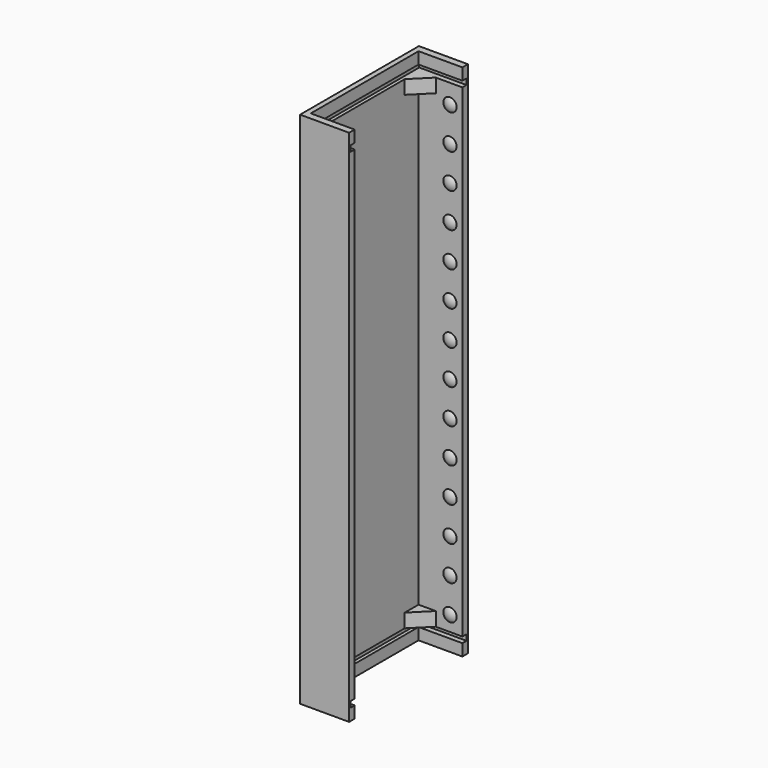
from build123d import *

# Parameters (mm, degrees)
EXTRUDE019_DEPTH           = 4
EXTRUDE014_DEPTH           = 4
EXTRUDE014_PLACEMENT_ANGLE = -90
EXTRUDE025_DEPTH           = 4
EXTRUDE024_DEPTH           = 4
EXTRUDE024_PLACEMENT_ANGLE = -90
BOX061_W                   = 10
BOX061_H                   = 10
BOX061_DEPTH               = 10
BOX058_W                   = 10
BOX058_H                   = 10
BOX058_DEPTH               = 10
BOX059_W                   = 10
BOX059_H                   = 10
BOX059_DEPTH               = 10
BOX060_W                   = 10
BOX060_H                   = 10
BOX060_DEPTH               = 10
BOX057_W                   = 10
BOX057_H                   = 10
BOX057_DEPTH               = 10
BOX050_W                   = 10
BOX050_H                   = 10
BOX050_DEPTH               = 10
BOX063_W                   = 10
BOX063_H                   = 10
BOX063_DEPTH               = 10
BOX053_W                   = 10
BOX053_H                   = 10
BOX053_DEPTH               = 10
BOX056_W                   = 10
BOX056_H                   = 10
BOX056_DEPTH               = 10
BOX054_W                   = 10
BOX054_H                   = 10
BOX054_DEPTH               = 10
BOX052_W                   = 10
BOX052_H                   = 10
BOX052_DEPTH               = 10
BOX051_W                   = 10
BOX051_H                   = 10
BOX051_DEPTH               = 10
BOX055_W                   = 10
BOX055_H                   = 10
BOX055_DEPTH               = 10
BOX062_W                   = 10
BOX062_H                   = 10
BOX062_DEPTH               = 10
FUSION012_PLACEMENT_ANGLE  = 180
BOX029_W                   = 10
BOX029_H                   = 10
BOX029_DEPTH               = 10
BOX032_W                   = 10
BOX032_H                   = 10
BOX032_DEPTH               = 10
BOX027_W                   = 10
BOX027_H                   = 10
BOX027_DEPTH               = 10
BOX023_W                   = 10
BOX023_H                   = 10
BOX023_DEPTH               = 10
BOX024_W                   = 10
BOX024_H                   = 10
BOX024_DEPTH               = 10
BOX033_W                   = 10
BOX033_H                   = 10
BOX033_DEPTH               = 10
BOX022_W                   = 10
BOX022_H                   = 10
BOX022_DEPTH               = 10
BOX025_W                   = 10
BOX025_H                   = 10
BOX025_DEPTH               = 10
BOX026_W                   = 10
BOX026_H                   = 10
BOX026_DEPTH               = 10
BOX028_W                   = 10
BOX028_H                   = 10
BOX028_DEPTH               = 10
BOX035_W                   = 10
BOX035_H                   = 10
BOX035_DEPTH               = 10
BOX034_W                   = 10
BOX034_H                   = 10
BOX034_DEPTH               = 10
BOX031_W                   = 10
BOX031_H                   = 10
BOX031_DEPTH               = 10
BOX030_W                   = 10
BOX030_H                   = 10
BOX030_DEPTH               = 10
EXTRUDE007_DEPTH           = 140
EXTRUDE008_DEPTH           = 3.4
EXTRUDE_DEPTH              = 3.4
EXTRUDE009_DEPTH           = 150.2


with BuildPart() as extrude019:
    # Sketch012 → Extrude019 (new body)
    with BuildSketch(Plane.XY):
        Polygon((0, 0), (5, 0), (0, 5), align=None)
    extrude(amount=EXTRUDE019_DEPTH)


with BuildPart() as extrude019_1:
    # Extrude019 placement: moved
    add(extrude019.part.moved(Location((-10, -19.5, 1.6))))


with BuildPart() as obj1:
    # Sketch010 → Extrude014 (new body)
    with BuildSketch(Plane.XY):
        Polygon((0, 0), (5, 0), (0, 5), align=None)
    extrude(amount=EXTRUDE014_DEPTH)


with BuildPart() as obj1_1:
    # Extrude014 placement: moved
    add(obj1.part.moved(Location((-10, 19.5, 1.6))).rotate(Axis((-10, 19.5, 1.6), (0, 0, 1)), EXTRUDE014_PLACEMENT_ANGLE))

    # Fusion027: union Extrude019
    add(extrude019_1.part)


with BuildPart() as extrude025:
    # Sketch018 → Extrude025 (new body)
    with BuildSketch(Plane.XY):
        Polygon((0, 0), (5, 0), (0, 5), align=None)
    extrude(amount=EXTRUDE025_DEPTH)


with BuildPart() as extrude025_1:
    # Extrude025 placement: moved
    add(extrude025.part.moved(Location((-10, -19.5, 1.6))))


with BuildPart() as obj2:
    # Sketch013 → Extrude024 (new body)
    with BuildSketch(Plane.XY):
        Polygon((0, 0), (5, 0), (0, 5), align=None)
    extrude(amount=EXTRUDE024_DEPTH)


with BuildPart() as obj2_1:
    # Extrude024 placement: moved
    add(obj2.part.moved(Location((-10, 19.5, 1.6))).rotate(Axis((-10, 19.5, 1.6), (0, 0, 1)), EXTRUDE024_PLACEMENT_ANGLE))

    # Fusion033: union Extrude025
    add(extrude025_1.part)


with BuildPart() as obj2_2:
    # Fusion033 placement: moved
    add(obj2_1.part.moved(Location((0, 0, 136))))


with BuildPart() as cube059:
    # Box061 → Box061 (new body)
    with BuildSketch(Plane(origin=(-6, 20.5, 0), x_dir=(1, 0, 0), z_dir=(0, 0, 1))):
        with Locations((5, 5)):
            Rectangle(BOX061_W, BOX061_H)
    extrude(amount=BOX061_DEPTH)


with BuildPart() as obj3:
    # Sphere043 → Sphere043 (revolve)
    with BuildSketch(Plane(origin=(-1, 21.8, 6), x_dir=(1, 0, 0), z_dir=(0, -1, 0))):
        with BuildLine():
            ThreePointArc((0, -3), (3, 0), (0, 3))
            Line((0, 3), (0, -3))
        make_face()
    revolve(axis=Axis((-1, 21.8, 6), (0, 0, 1)))

    # Cut044: cut Cube059
    add(cube059.part, mode=Mode.SUBTRACT)


with BuildPart() as obj3_1:
    # Cut044 placement: moved
    add(obj3.part.moved(Location((0, 0, 20))))


with BuildPart() as cube056:
    # Box058 → Box058 (new body)
    with BuildSketch(Plane(origin=(-6, 20.5, 0), x_dir=(1, 0, 0), z_dir=(0, 0, 1))):
        with Locations((5, 5)):
            Rectangle(BOX058_W, BOX058_H)
    extrude(amount=BOX058_DEPTH)


with BuildPart() as obj4:
    # Sphere047 → Sphere047 (revolve)
    with BuildSketch(Plane(origin=(-1, 21.8, 6), x_dir=(1, 0, 0), z_dir=(0, -1, 0))):
        with BuildLine():
            ThreePointArc((0, -3), (3, 0), (0, 3))
            Line((0, 3), (0, -3))
        make_face()
    revolve(axis=Axis((-1, 21.8, 6), (0, 0, 1)))

    # Cut045: cut Cube056
    add(cube056.part, mode=Mode.SUBTRACT)


with BuildPart() as obj4_1:
    # Cut045 placement: moved
    add(obj4.part.moved(Location((0, 0, 60))))


with BuildPart() as cube057:
    # Box059 → Box059 (new body)
    with BuildSketch(Plane(origin=(-6, 20.5, 0), x_dir=(1, 0, 0), z_dir=(0, 0, 1))):
        with Locations((5, 5)):
            Rectangle(BOX059_W, BOX059_H)
    extrude(amount=BOX059_DEPTH)


with BuildPart() as obj5:
    # Sphere055 → Sphere055 (revolve)
    with BuildSketch(Plane(origin=(-1, 21.8, 6), x_dir=(1, 0, 0), z_dir=(0, -1, 0))):
        with BuildLine():
            ThreePointArc((0, -3), (3, 0), (0, 3))
            Line((0, 3), (0, -3))
        make_face()
    revolve(axis=Axis((-1, 21.8, 6), (0, 0, 1)))

    # Cut046: cut Cube057
    add(cube057.part, mode=Mode.SUBTRACT)


with BuildPart() as obj5_1:
    # Cut046 placement: moved
    add(obj5.part.moved(Location((0, 0, 80))))


with BuildPart() as cube058:
    # Box060 → Box060 (new body)
    with BuildSketch(Plane(origin=(-6, 20.5, 0), x_dir=(1, 0, 0), z_dir=(0, 0, 1))):
        with Locations((5, 5)):
            Rectangle(BOX060_W, BOX060_H)
    extrude(amount=BOX060_DEPTH)


with BuildPart() as obj6:
    # Sphere052 → Sphere052 (revolve)
    with BuildSketch(Plane(origin=(-1, 21.8, 6), x_dir=(1, 0, 0), z_dir=(0, -1, 0))):
        with BuildLine():
            ThreePointArc((0, -3), (3, 0), (0, 3))
            Line((0, 3), (0, -3))
        make_face()
    revolve(axis=Axis((-1, 21.8, 6), (0, 0, 1)))

    # Cut049: cut Cube058
    add(cube058.part, mode=Mode.SUBTRACT)


with BuildPart() as obj6_1:
    # Cut049 placement: moved
    add(obj6.part.moved(Location((0, 0, 110))))


with BuildPart() as cube055:
    # Box057 → Box057 (new body)
    with BuildSketch(Plane(origin=(-6, 20.5, 0), x_dir=(1, 0, 0), z_dir=(0, 0, 1))):
        with Locations((5, 5)):
            Rectangle(BOX057_W, BOX057_H)
    extrude(amount=BOX057_DEPTH)


with BuildPart() as obj7:
    # Sphere051 → Sphere051 (revolve)
    with BuildSketch(Plane(origin=(-1, 21.8, 6), x_dir=(1, 0, 0), z_dir=(0, -1, 0))):
        with BuildLine():
            ThreePointArc((0, -3), (3, 0), (0, 3))
            Line((0, 3), (0, -3))
        make_face()
    revolve(axis=Axis((-1, 21.8, 6), (0, 0, 1)))

    # Cut052: cut Cube055
    add(cube055.part, mode=Mode.SUBTRACT)


with BuildPart() as obj7_1:
    # Cut052 placement: moved
    add(obj7.part.moved(Location((0, 0, 70))))


with BuildPart() as cube048:
    # Box050 → Box050 (new body)
    with BuildSketch(Plane(origin=(-6, 20.5, 0), x_dir=(1, 0, 0), z_dir=(0, 0, 1))):
        with Locations((5, 5)):
            Rectangle(BOX050_W, BOX050_H)
    extrude(amount=BOX050_DEPTH)


with BuildPart() as obj8:
    # Sphere048 → Sphere048 (revolve)
    with BuildSketch(Plane(origin=(-1, 21.8, 6), x_dir=(1, 0, 0), z_dir=(0, -1, 0))):
        with BuildLine():
            ThreePointArc((0, -3), (3, 0), (0, 3))
            Line((0, 3), (0, -3))
        make_face()
    revolve(axis=Axis((-1, 21.8, 6), (0, 0, 1)))

    # Cut053: cut Cube048
    add(cube048.part, mode=Mode.SUBTRACT)


with BuildPart() as obj8_1:
    # Cut053 placement: moved
    add(obj8.part.moved(Location((0, 0, 40))))


with BuildPart() as cube061:
    # Box063 → Box063 (new body)
    with BuildSketch(Plane(origin=(-6, 20.5, 0), x_dir=(1, 0, 0), z_dir=(0, 0, 1))):
        with Locations((5, 5)):
            Rectangle(BOX063_W, BOX063_H)
    extrude(amount=BOX063_DEPTH)


with BuildPart() as obj9:
    # Sphere050 → Sphere050 (revolve)
    with BuildSketch(Plane(origin=(-1, 21.8, 6), x_dir=(1, 0, 0), z_dir=(0, -1, 0))):
        with BuildLine():
            ThreePointArc((0, -3), (3, 0), (0, 3))
            Line((0, 3), (0, -3))
        make_face()
    revolve(axis=Axis((-1, 21.8, 6), (0, 0, 1)))

    # Cut050: cut Cube061
    add(cube061.part, mode=Mode.SUBTRACT)


with BuildPart() as obj9_1:
    # Cut050 placement: moved
    add(obj9.part.moved(Location((0, 0, 90))))


with BuildPart() as cube051:
    # Box053 → Box053 (new body)
    with BuildSketch(Plane(origin=(-6, 20.5, 0), x_dir=(1, 0, 0), z_dir=(0, 0, 1))):
        with Locations((5, 5)):
            Rectangle(BOX053_W, BOX053_H)
    extrude(amount=BOX053_DEPTH)


with BuildPart() as obj10:
    # Sphere049 → Sphere049 (revolve)
    with BuildSketch(Plane(origin=(-1, 21.8, 6), x_dir=(1, 0, 0), z_dir=(0, -1, 0))):
        with BuildLine():
            ThreePointArc((0, -3), (3, 0), (0, 3))
            Line((0, 3), (0, -3))
        make_face()
    revolve(axis=Axis((-1, 21.8, 6), (0, 0, 1)))

    # Cut055: cut Cube051
    add(cube051.part, mode=Mode.SUBTRACT)


with BuildPart() as obj10_1:
    # Cut055 placement: moved
    add(obj10.part.moved(Location((0, 0, 100))))


with BuildPart() as cube054:
    # Box056 → Box056 (new body)
    with BuildSketch(Plane(origin=(-6, 20.5, 0), x_dir=(1, 0, 0), z_dir=(0, 0, 1))):
        with Locations((5, 5)):
            Rectangle(BOX056_W, BOX056_H)
    extrude(amount=BOX056_DEPTH)


with BuildPart() as obj11:
    # Sphere056 → Sphere056 (revolve)
    with BuildSketch(Plane(origin=(-1, 21.8, 6), x_dir=(1, 0, 0), z_dir=(0, -1, 0))):
        with BuildLine():
            ThreePointArc((0, -3), (3, 0), (0, 3))
            Line((0, 3), (0, -3))
        make_face()
    revolve(axis=Axis((-1, 21.8, 6), (0, 0, 1)))

    # Cut051: cut Cube054
    add(cube054.part, mode=Mode.SUBTRACT)


with BuildPart() as obj11_1:
    # Cut051 placement: moved
    add(obj11.part.moved(Location((0, 0, 120))))


with BuildPart() as cube052:
    # Box054 → Box054 (new body)
    with BuildSketch(Plane(origin=(-6, 20.5, 0), x_dir=(1, 0, 0), z_dir=(0, 0, 1))):
        with Locations((5, 5)):
            Rectangle(BOX054_W, BOX054_H)
    extrude(amount=BOX054_DEPTH)


with BuildPart() as obj12:
    # Sphere044 → Sphere044 (revolve)
    with BuildSketch(Plane(origin=(-1, 21.8, 6), x_dir=(1, 0, 0), z_dir=(0, -1, 0))):
        with BuildLine():
            ThreePointArc((0, -3), (3, 0), (0, 3))
            Line((0, 3), (0, -3))
        make_face()
    revolve(axis=Axis((-1, 21.8, 6), (0, 0, 1)))

    # Cut054: cut Cube052
    add(cube052.part, mode=Mode.SUBTRACT)


with BuildPart() as obj12_1:
    # Cut054 placement: moved
    add(obj12.part.moved(Location((0, 0, 10))))


with BuildPart() as cube050:
    # Box052 → Box052 (new body)
    with BuildSketch(Plane(origin=(-6, 20.5, 0), x_dir=(1, 0, 0), z_dir=(0, 0, 1))):
        with Locations((5, 5)):
            Rectangle(BOX052_W, BOX052_H)
    extrude(amount=BOX052_DEPTH)


with BuildPart() as obj13:
    # Sphere053 → Sphere053 (revolve)
    with BuildSketch(Plane(origin=(-1, 21.8, 6), x_dir=(1, 0, 0), z_dir=(0, -1, 0))):
        with BuildLine():
            ThreePointArc((0, -3), (3, 0), (0, 3))
            Line((0, 3), (0, -3))
        make_face()
    revolve(axis=Axis((-1, 21.8, 6), (0, 0, 1)))

    # Cut056: cut Cube050
    add(cube050.part, mode=Mode.SUBTRACT)


with BuildPart() as obj13_1:
    # Cut056 placement: moved
    add(obj13.part.moved(Location((0, 0, 30))))


with BuildPart() as cube049:
    # Box051 → Box051 (new body)
    with BuildSketch(Plane(origin=(-6, 20.5, 0), x_dir=(1, 0, 0), z_dir=(0, 0, 1))):
        with Locations((5, 5)):
            Rectangle(BOX051_W, BOX051_H)
    extrude(amount=BOX051_DEPTH)


with BuildPart() as obj14:
    # Sphere054 → Sphere054 (revolve)
    with BuildSketch(Plane(origin=(-1, 21.8, 6), x_dir=(1, 0, 0), z_dir=(0, -1, 0))):
        with BuildLine():
            ThreePointArc((0, -3), (3, 0), (0, 3))
            Line((0, 3), (0, -3))
        make_face()
    revolve(axis=Axis((-1, 21.8, 6), (0, 0, 1)))

    # Cut048: cut Cube049
    add(cube049.part, mode=Mode.SUBTRACT)


with BuildPart() as obj14_1:
    # Cut048 placement: moved
    add(obj14.part.moved(Location((0, 0, 50))))


with BuildPart() as cube053:
    # Box055 → Box055 (new body)
    with BuildSketch(Plane(origin=(-6, 20.5, 0), x_dir=(1, 0, 0), z_dir=(0, 0, 1))):
        with Locations((5, 5)):
            Rectangle(BOX055_W, BOX055_H)
    extrude(amount=BOX055_DEPTH)


with BuildPart() as obj15:
    # Sphere046 → Sphere046 (revolve)
    with BuildSketch(Plane(origin=(-1, 21.8, 6), x_dir=(1, 0, 0), z_dir=(0, -1, 0))):
        with BuildLine():
            ThreePointArc((0, -3), (3, 0), (0, 3))
            Line((0, 3), (0, -3))
        make_face()
    revolve(axis=Axis((-1, 21.8, 6), (0, 0, 1)))

    # Cut047: cut Cube053
    add(cube053.part, mode=Mode.SUBTRACT)


with BuildPart() as obj15_1:
    # Cut047 placement: moved
    add(obj15.part.moved(Location((0, 0, 130))))


with BuildPart() as cube060:
    # Box062 → Box062 (new body)
    with BuildSketch(Plane(origin=(-6, 20.5, 0), x_dir=(1, 0, 0), z_dir=(0, 0, 1))):
        with Locations((5, 5)):
            Rectangle(BOX062_W, BOX062_H)
    extrude(amount=BOX062_DEPTH)


with BuildPart() as obj16:
    # Sphere045 → Sphere045 (revolve)
    with BuildSketch(Plane(origin=(-1, 21.8, 6), x_dir=(1, 0, 0), z_dir=(0, -1, 0))):
        with BuildLine():
            ThreePointArc((0, -3), (3, 0), (0, 3))
            Line((0, 3), (0, -3))
        make_face()
    revolve(axis=Axis((-1, 21.8, 6), (0, 0, 1)))

    # Cut057: cut Cube060
    add(cube060.part, mode=Mode.SUBTRACT)

    # Fusion012: union obj3, obj4, obj5, obj6, obj7, obj8, obj9, obj10, obj11, obj12, obj13, obj14, obj15
    add(obj3_1.part)
    add(obj4_1.part)
    add(obj5_1.part)
    add(obj6_1.part)
    add(obj7_1.part)
    add(obj8_1.part)
    add(obj9_1.part)
    add(obj10_1.part)
    add(obj11_1.part)
    add(obj12_1.part)
    add(obj13_1.part)
    add(obj14_1.part)
    add(obj15_1.part)


with BuildPart() as obj16_1:
    # Fusion012 placement: moved
    add(obj16.part.moved(Location((-2, 0, 0))).rotate(Axis((-2, 0, 0), (0, 0, 1)), FUSION012_PLACEMENT_ANGLE))


with BuildPart() as cube027:
    # Box029 → Box029 (new body)
    with BuildSketch(Plane(origin=(-6, 20.5, 0), x_dir=(1, 0, 0), z_dir=(0, 0, 1))):
        with Locations((5, 5)):
            Rectangle(BOX029_W, BOX029_H)
    extrude(amount=BOX029_DEPTH)


with BuildPart() as obj17:
    # Sphere024 → Sphere024 (revolve)
    with BuildSketch(Plane(origin=(-1, 21.8, 6), x_dir=(1, 0, 0), z_dir=(0, -1, 0))):
        with BuildLine():
            ThreePointArc((0, -3), (3, 0), (0, 3))
            Line((0, 3), (0, -3))
        make_face()
    revolve(axis=Axis((-1, 21.8, 6), (0, 0, 1)))

    # Cut016: cut Cube027
    add(cube027.part, mode=Mode.SUBTRACT)


with BuildPart() as obj17_1:
    # Cut016 placement: moved
    add(obj17.part.moved(Location((0, 0, 20))))


with BuildPart() as cube030:
    # Box032 → Box032 (new body)
    with BuildSketch(Plane(origin=(-6, 20.5, 0), x_dir=(1, 0, 0), z_dir=(0, 0, 1))):
        with Locations((5, 5)):
            Rectangle(BOX032_W, BOX032_H)
    extrude(amount=BOX032_DEPTH)


with BuildPart() as obj18:
    # Sphere025 → Sphere025 (revolve)
    with BuildSketch(Plane(origin=(-1, 21.8, 6), x_dir=(1, 0, 0), z_dir=(0, -1, 0))):
        with BuildLine():
            ThreePointArc((0, -3), (3, 0), (0, 3))
            Line((0, 3), (0, -3))
        make_face()
    revolve(axis=Axis((-1, 21.8, 6), (0, 0, 1)))

    # Cut017: cut Cube030
    add(cube030.part, mode=Mode.SUBTRACT)


with BuildPart() as obj18_1:
    # Cut017 placement: moved
    add(obj18.part.moved(Location((0, 0, 60))))


with BuildPart() as cube025:
    # Box027 → Box027 (new body)
    with BuildSketch(Plane(origin=(-6, 20.5, 0), x_dir=(1, 0, 0), z_dir=(0, 0, 1))):
        with Locations((5, 5)):
            Rectangle(BOX027_W, BOX027_H)
    extrude(amount=BOX027_DEPTH)


with BuildPart() as obj19:
    # Sphere018 → Sphere018 (revolve)
    with BuildSketch(Plane(origin=(-1, 21.8, 6), x_dir=(1, 0, 0), z_dir=(0, -1, 0))):
        with BuildLine():
            ThreePointArc((0, -3), (3, 0), (0, 3))
            Line((0, 3), (0, -3))
        make_face()
    revolve(axis=Axis((-1, 21.8, 6), (0, 0, 1)))

    # Cut018: cut Cube025
    add(cube025.part, mode=Mode.SUBTRACT)


with BuildPart() as obj19_1:
    # Cut018 placement: moved
    add(obj19.part.moved(Location((0, 0, 80))))


with BuildPart() as cube021:
    # Box023 → Box023 (new body)
    with BuildSketch(Plane(origin=(-6, 20.5, 0), x_dir=(1, 0, 0), z_dir=(0, 0, 1))):
        with Locations((5, 5)):
            Rectangle(BOX023_W, BOX023_H)
    extrude(amount=BOX023_DEPTH)


with BuildPart() as obj20:
    # Sphere016 → Sphere016 (revolve)
    with BuildSketch(Plane(origin=(-1, 21.8, 6), x_dir=(1, 0, 0), z_dir=(0, -1, 0))):
        with BuildLine():
            ThreePointArc((0, -3), (3, 0), (0, 3))
            Line((0, 3), (0, -3))
        make_face()
    revolve(axis=Axis((-1, 21.8, 6), (0, 0, 1)))

    # Cut019: cut Cube021
    add(cube021.part, mode=Mode.SUBTRACT)


with BuildPart() as obj20_1:
    # Cut019 placement: moved
    add(obj20.part.moved(Location((0, 0, 110))))


with BuildPart() as cube022:
    # Box024 → Box024 (new body)
    with BuildSketch(Plane(origin=(-6, 20.5, 0), x_dir=(1, 0, 0), z_dir=(0, 0, 1))):
        with Locations((5, 5)):
            Rectangle(BOX024_W, BOX024_H)
    extrude(amount=BOX024_DEPTH)


with BuildPart() as obj21:
    # Sphere020 → Sphere020 (revolve)
    with BuildSketch(Plane(origin=(-1, 21.8, 6), x_dir=(1, 0, 0), z_dir=(0, -1, 0))):
        with BuildLine():
            ThreePointArc((0, -3), (3, 0), (0, 3))
            Line((0, 3), (0, -3))
        make_face()
    revolve(axis=Axis((-1, 21.8, 6), (0, 0, 1)))

    # Cut020: cut Cube022
    add(cube022.part, mode=Mode.SUBTRACT)


with BuildPart() as obj21_1:
    # Cut020 placement: moved
    add(obj21.part.moved(Location((0, 0, 70))))


with BuildPart() as cube031:
    # Box033 → Box033 (new body)
    with BuildSketch(Plane(origin=(-6, 20.5, 0), x_dir=(1, 0, 0), z_dir=(0, 0, 1))):
        with Locations((5, 5)):
            Rectangle(BOX033_W, BOX033_H)
    extrude(amount=BOX033_DEPTH)


with BuildPart() as obj22:
    # Sphere021 → Sphere021 (revolve)
    with BuildSketch(Plane(origin=(-1, 21.8, 6), x_dir=(1, 0, 0), z_dir=(0, -1, 0))):
        with BuildLine():
            ThreePointArc((0, -3), (3, 0), (0, 3))
            Line((0, 3), (0, -3))
        make_face()
    revolve(axis=Axis((-1, 21.8, 6), (0, 0, 1)))

    # Cut021: cut Cube031
    add(cube031.part, mode=Mode.SUBTRACT)


with BuildPart() as obj22_1:
    # Cut021 placement: moved
    add(obj22.part.moved(Location((0, 0, 40))))


with BuildPart() as cube020:
    # Box022 → Box022 (new body)
    with BuildSketch(Plane(origin=(-6, 20.5, 0), x_dir=(1, 0, 0), z_dir=(0, 0, 1))):
        with Locations((5, 5)):
            Rectangle(BOX022_W, BOX022_H)
    extrude(amount=BOX022_DEPTH)


with BuildPart() as obj23:
    # Sphere015 → Sphere015 (revolve)
    with BuildSketch(Plane(origin=(-1, 21.8, 6), x_dir=(1, 0, 0), z_dir=(0, -1, 0))):
        with BuildLine():
            ThreePointArc((0, -3), (3, 0), (0, 3))
            Line((0, 3), (0, -3))
        make_face()
    revolve(axis=Axis((-1, 21.8, 6), (0, 0, 1)))

    # Cut022: cut Cube020
    add(cube020.part, mode=Mode.SUBTRACT)


with BuildPart() as obj23_1:
    # Cut022 placement: moved
    add(obj23.part.moved(Location((0, 0, 90))))


with BuildPart() as cube023:
    # Box025 → Box025 (new body)
    with BuildSketch(Plane(origin=(-6, 20.5, 0), x_dir=(1, 0, 0), z_dir=(0, 0, 1))):
        with Locations((5, 5)):
            Rectangle(BOX025_W, BOX025_H)
    extrude(amount=BOX025_DEPTH)


with BuildPart() as obj24:
    # Sphere017 → Sphere017 (revolve)
    with BuildSketch(Plane(origin=(-1, 21.8, 6), x_dir=(1, 0, 0), z_dir=(0, -1, 0))):
        with BuildLine():
            ThreePointArc((0, -3), (3, 0), (0, 3))
            Line((0, 3), (0, -3))
        make_face()
    revolve(axis=Axis((-1, 21.8, 6), (0, 0, 1)))

    # Cut023: cut Cube023
    add(cube023.part, mode=Mode.SUBTRACT)


with BuildPart() as obj24_1:
    # Cut023 placement: moved
    add(obj24.part.moved(Location((0, 0, 100))))


with BuildPart() as cube024:
    # Box026 → Box026 (new body)
    with BuildSketch(Plane(origin=(-6, 20.5, 0), x_dir=(1, 0, 0), z_dir=(0, 0, 1))):
        with Locations((5, 5)):
            Rectangle(BOX026_W, BOX026_H)
    extrude(amount=BOX026_DEPTH)


with BuildPart() as obj25:
    # Sphere019 → Sphere019 (revolve)
    with BuildSketch(Plane(origin=(-1, 21.8, 6), x_dir=(1, 0, 0), z_dir=(0, -1, 0))):
        with BuildLine():
            ThreePointArc((0, -3), (3, 0), (0, 3))
            Line((0, 3), (0, -3))
        make_face()
    revolve(axis=Axis((-1, 21.8, 6), (0, 0, 1)))

    # Cut025: cut Cube024
    add(cube024.part, mode=Mode.SUBTRACT)


with BuildPart() as obj25_1:
    # Cut025 placement: moved
    add(obj25.part.moved(Location((0, 0, 120))))


with BuildPart() as cube026:
    # Box028 → Box028 (new body)
    with BuildSketch(Plane(origin=(-6, 20.5, 0), x_dir=(1, 0, 0), z_dir=(0, 0, 1))):
        with Locations((5, 5)):
            Rectangle(BOX028_W, BOX028_H)
    extrude(amount=BOX028_DEPTH)


with BuildPart() as obj26:
    # Sphere027 → Sphere027 (revolve)
    with BuildSketch(Plane(origin=(-1, 21.8, 6), x_dir=(1, 0, 0), z_dir=(0, -1, 0))):
        with BuildLine():
            ThreePointArc((0, -3), (3, 0), (0, 3))
            Line((0, 3), (0, -3))
        make_face()
    revolve(axis=Axis((-1, 21.8, 6), (0, 0, 1)))

    # Cut026: cut Cube026
    add(cube026.part, mode=Mode.SUBTRACT)


with BuildPart() as obj26_1:
    # Cut026 placement: moved
    add(obj26.part.moved(Location((0, 0, 10))))


with BuildPart() as cube033:
    # Box035 → Box035 (new body)
    with BuildSketch(Plane(origin=(-6, 20.5, 0), x_dir=(1, 0, 0), z_dir=(0, 0, 1))):
        with Locations((5, 5)):
            Rectangle(BOX035_W, BOX035_H)
    extrude(amount=BOX035_DEPTH)


with BuildPart() as obj27:
    # Sphere022 → Sphere022 (revolve)
    with BuildSketch(Plane(origin=(-1, 21.8, 6), x_dir=(1, 0, 0), z_dir=(0, -1, 0))):
        with BuildLine():
            ThreePointArc((0, -3), (3, 0), (0, 3))
            Line((0, 3), (0, -3))
        make_face()
    revolve(axis=Axis((-1, 21.8, 6), (0, 0, 1)))

    # Cut027: cut Cube033
    add(cube033.part, mode=Mode.SUBTRACT)


with BuildPart() as obj27_1:
    # Cut027 placement: moved
    add(obj27.part.moved(Location((0, 0, 30))))


with BuildPart() as cube032:
    # Box034 → Box034 (new body)
    with BuildSketch(Plane(origin=(-6, 20.5, 0), x_dir=(1, 0, 0), z_dir=(0, 0, 1))):
        with Locations((5, 5)):
            Rectangle(BOX034_W, BOX034_H)
    extrude(amount=BOX034_DEPTH)


with BuildPart() as obj28:
    # Sphere023 → Sphere023 (revolve)
    with BuildSketch(Plane(origin=(-1, 21.8, 6), x_dir=(1, 0, 0), z_dir=(0, -1, 0))):
        with BuildLine():
            ThreePointArc((0, -3), (3, 0), (0, 3))
            Line((0, 3), (0, -3))
        make_face()
    revolve(axis=Axis((-1, 21.8, 6), (0, 0, 1)))

    # Cut028: cut Cube032
    add(cube032.part, mode=Mode.SUBTRACT)


with BuildPart() as obj28_1:
    # Cut028 placement: moved
    add(obj28.part.moved(Location((0, 0, 50))))


with BuildPart() as cube029:
    # Box031 → Box031 (new body)
    with BuildSketch(Plane(origin=(-6, 20.5, 0), x_dir=(1, 0, 0), z_dir=(0, 0, 1))):
        with Locations((5, 5)):
            Rectangle(BOX031_W, BOX031_H)
    extrude(amount=BOX031_DEPTH)


with BuildPart() as obj29:
    # Sphere028 → Sphere028 (revolve)
    with BuildSketch(Plane(origin=(-1, 21.8, 6), x_dir=(1, 0, 0), z_dir=(0, -1, 0))):
        with BuildLine():
            ThreePointArc((0, -3), (3, 0), (0, 3))
            Line((0, 3), (0, -3))
        make_face()
    revolve(axis=Axis((-1, 21.8, 6), (0, 0, 1)))

    # Cut029: cut Cube029
    add(cube029.part, mode=Mode.SUBTRACT)


with BuildPart() as obj29_1:
    # Cut029 placement: moved
    add(obj29.part.moved(Location((0, 0, 130))))


with BuildPart() as cube028:
    # Box030 → Box030 (new body)
    with BuildSketch(Plane(origin=(-6, 20.5, 0), x_dir=(1, 0, 0), z_dir=(0, 0, 1))):
        with Locations((5, 5)):
            Rectangle(BOX030_W, BOX030_H)
    extrude(amount=BOX030_DEPTH)


with BuildPart() as fusion014:
    # Sphere026 → Sphere026 (revolve)
    with BuildSketch(Plane(origin=(-1, 21.8, 6), x_dir=(1, 0, 0), z_dir=(0, -1, 0))):
        with BuildLine():
            ThreePointArc((0, -3), (3, 0), (0, 3))
            Line((0, 3), (0, -3))
        make_face()
    revolve(axis=Axis((-1, 21.8, 6), (0, 0, 1)))

    # Cut024: cut Cube028
    add(cube028.part, mode=Mode.SUBTRACT)

    # Fusion010: union obj17, obj18, obj19, obj20, obj21, obj22, obj23, obj24, obj25, obj26, obj27, obj28, obj29
    add(obj17_1.part)
    add(obj18_1.part)
    add(obj19_1.part)
    add(obj20_1.part)
    add(obj21_1.part)
    add(obj22_1.part)
    add(obj23_1.part)
    add(obj24_1.part)
    add(obj25_1.part)
    add(obj26_1.part)
    add(obj27_1.part)
    add(obj28_1.part)
    add(obj29_1.part)

    # Fusion014: union obj16
    add(obj16_1.part)


with BuildPart() as fusion014_1:
    # Fusion014 placement: moved
    add(fusion014.part.moved(Location((0.1, 0, 0))))


with BuildPart() as extrude007:
    # Sketch007 → Extrude007 (new body)
    with BuildSketch(Plane.XY):
        Polygon((-1, 21), (12.7, 21), (12.7, 19.5), (0, 19.5), (0, -19.5), (12.7, -19.5), (12.7, -21), (-1, -21), align=None)
    extrude(amount=EXTRUDE007_DEPTH)


with BuildPart() as extrude007_1:
    # Extrude007 placement: moved
    add(extrude007.part.moved(Location((-10, 0, 1.6))))


with BuildPart() as extrude008:
    # Sketch008 → Extrude008 (new body)
    with BuildSketch(Plane.XY):
        Polygon((-1, 21), (12.7, 21), (12.7, 19.5), (0, 19.5), (0, -19.5), (12.7, -19.5), (12.7, -21), (-1, -21), align=None)
    extrude(amount=EXTRUDE008_DEPTH)


with BuildPart() as extrude008_1:
    # Extrude008 placement: moved
    add(extrude008.part.moved(Location((-10, 0, 143.3))))


with BuildPart() as rail001:
    # Sketch → Extrude (new body)
    with BuildSketch(Plane.XY):
        Polygon((-1, 21), (12.7, 21), (12.7, 19.5), (0, 19.5), (0, -19.5), (12.7, -19.5), (12.7, -21), (-1, -21), align=None)
    extrude(amount=EXTRUDE_DEPTH)


with BuildPart() as rail001_1:
    # Extrude placement: moved
    add(rail001.part.moved(Location((-10, 0, -3.5))))

    # Fusion007: union Extrude007, Extrude008
    add(extrude007_1.part)
    add(extrude008_1.part)


with BuildPart() as obj30:
    # Sketch009 → Extrude009 (new body)
    with BuildSketch(Plane.XY):
        Polygon((0, 21), (0, -21), (13.7, -21), (13.7, -21.5), (-0.5, -21.5), (-0.5, 21.5), (13.7, 21.5), (13.7, 21), align=None)
    extrude(amount=EXTRUDE009_DEPTH)


with BuildPart() as obj30_1:
    # Extrude009 placement: moved
    add(obj30.part.moved(Location((-11, 0, -3.5))))

    # Fusion008: union rail001
    add(rail001_1.part)

    # Fusion015: union Fusion014
    add(fusion014_1.part)

    # Fusion034: union obj1, obj2
    add(obj1_1.part)
    add(obj2_2.part)


with BuildPart() as obj30_2:
    # Fusion034 placement: moved
    add(obj30_1.part.moved(Location((-1, 0, 0.2))))


solid = obj30_2.part
